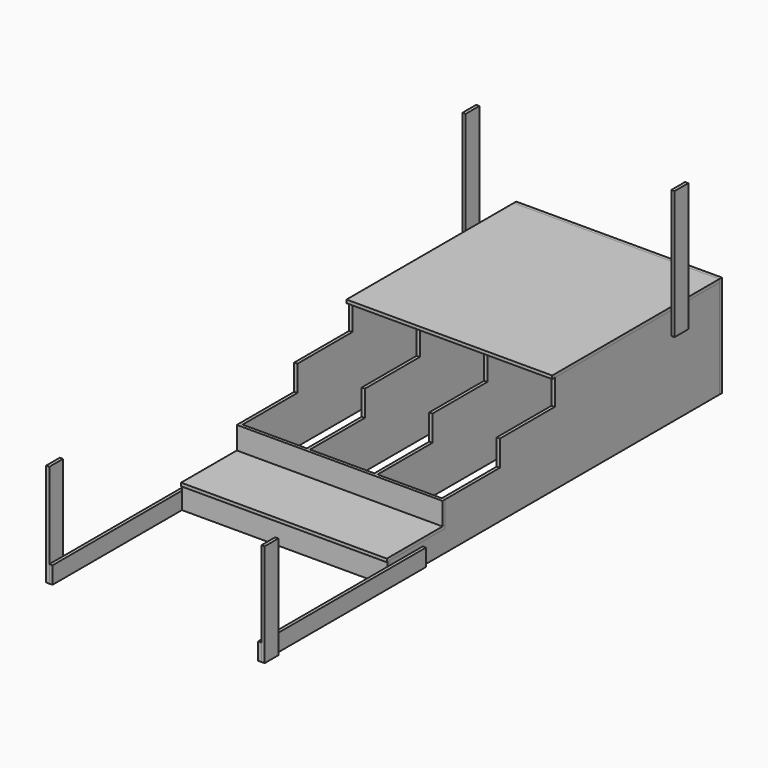
from build123d import *

# Parameters (mm, degrees)
F1_DEPTH  = 19.05
F5_W      = 1219.2
F5_H      = 431.8
F6_DEPTH  = 19.05
F7_W      = 1219.2
F7_H      = 127
F8_DEPTH  = 19.05
F9_W      = 1219.2
F9_H      = 1238.25
F10_DEPTH = 19.05
F11_W     = 1219.2
F11_H     = 603.25
F12_DEPTH = 19.05
F13_W     = 101.6
F13_H     = 762
F14_DEPTH = 19.05
F17_W     = 1219.2
F17_H     = 101.6
F18_DEPTH = 19.05
F19_W     = 101.6
F19_H     = 609.6
F20_DEPTH = 19.05
F22_W     = 1219.2
F22_H     = 133.35
F23_DEPTH = 19.05


with BuildPart() as f1:
    # F0 (on Right) → F1 (new body)
    with BuildSketch(Plane.YZ):
        Polygon((-787.4, 127), (-787.4, 0), (1651, 0), (1651, 584.2), (431.8, 584.2), (431.8, 431.8), (25.4, 431.8), (25.4, 279.4), (-381, 279.4), (-381, 127), align=None)
    extrude(amount=F1_DEPTH)


with BuildPart() as f2_1:
    # F2: copy of F1
    add(f1.part.moved(Location((400.05, 0, 0))))


with BuildPart() as f3_1:
    # F3: copy of F1
    add(f1.part.moved(Location((-400.05, 0, 0))))


with BuildPart() as f4_1:
    # F4: copy of F3_1
    add(f3_1.part.moved(Location((-400.05, 0, 0))))


with BuildPart() as f6:
    # F5 (on face) → F6 (new body)
    with BuildSketch(Plane.XY.offset(127)):
        with Locations((-190.5, -596.9)):
            Rectangle(F5_W, F5_H)
    extrude(amount=F6_DEPTH)


with BuildPart() as f8:
    # F7 (on face) → F8 (new body)
    with BuildSketch(Plane.XZ.offset(787.4)):
        with Locations((-190.5, 63.5)):
            Rectangle(F7_W, F7_H)
    extrude(amount=F8_DEPTH)


with BuildPart() as f10:
    # F9 (on face) → F10 (new body)
    with BuildSketch(Plane.XY.offset(584.2)):
        with Locations((-190.5, 1031.875)):
            Rectangle(F9_W, F9_H)
    extrude(amount=F10_DEPTH)


with BuildPart() as f12:
    # F11 (on face) → F12 (new body)
    with BuildSketch(Plane(origin=(0, 1651, 0), x_dir=(-1, 0, 0), z_dir=(0, 1, 0))):
        with Locations((190.5, 301.625)):
            Rectangle(F11_W, F11_H)
    extrude(amount=F12_DEPTH)


with BuildPart() as f14:
    # F13 (on face) → F14 (new body)
    with BuildSketch(Plane.YZ.offset(419.1)):
        with Locations((1346.2, 831.85)):
            Rectangle(F13_W, F13_H)
    extrude(amount=F14_DEPTH)


with BuildPart() as f16_1:
    # F16: instance of F14
    add(f14.part.mirror(Plane(origin=(-190.5, 694.7647058824, 251.7588235294), x_dir=(0, 1, 0), z_dir=(1, 0, 0))))


with BuildPart() as f18:
    # F17 (on face) → F18 (new body)
    with BuildSketch(Plane.YZ.offset(419.1)):
        with Locations((-1155.7, 50.8)):
            Rectangle(F17_W, F17_H)
    extrude(amount=F18_DEPTH)


with BuildPart() as f20:
    # F19 (on face) → F20 (new body)
    with BuildSketch(Plane.YZ.offset(438.15)):
        with Locations((-1714.5, 304.8)):
            Rectangle(F19_W, F19_H)
    extrude(amount=F20_DEPTH)


with BuildPart() as f21_1:
    # F21: instance of F18
    add(f18.part.mirror(Plane(origin=(-190.5, 694.7647058824, 251.7588235294), x_dir=(0, 1, 0), z_dir=(1, 0, 0))))


with BuildPart() as f21_2:
    # F21: instance of F20
    add(f20.part.mirror(Plane(origin=(-190.5, 694.7647058824, 251.7588235294), x_dir=(0, 1, 0), z_dir=(1, 0, 0))))


with BuildPart() as f23:
    # F22 (on face) → F23 (new body)
    with BuildSketch(Plane.XZ.offset(381)):
        with Locations((-190.5, 212.725)):
            Rectangle(F22_W, F22_H)
    extrude(amount=F23_DEPTH)


solid = Compound([f1.part, f2_1.part, f3_1.part, f4_1.part, f6.part, f8.part, f10.part, f12.part, f14.part, f16_1.part, f18.part, f20.part, f21_1.part, f21_2.part, f23.part])
